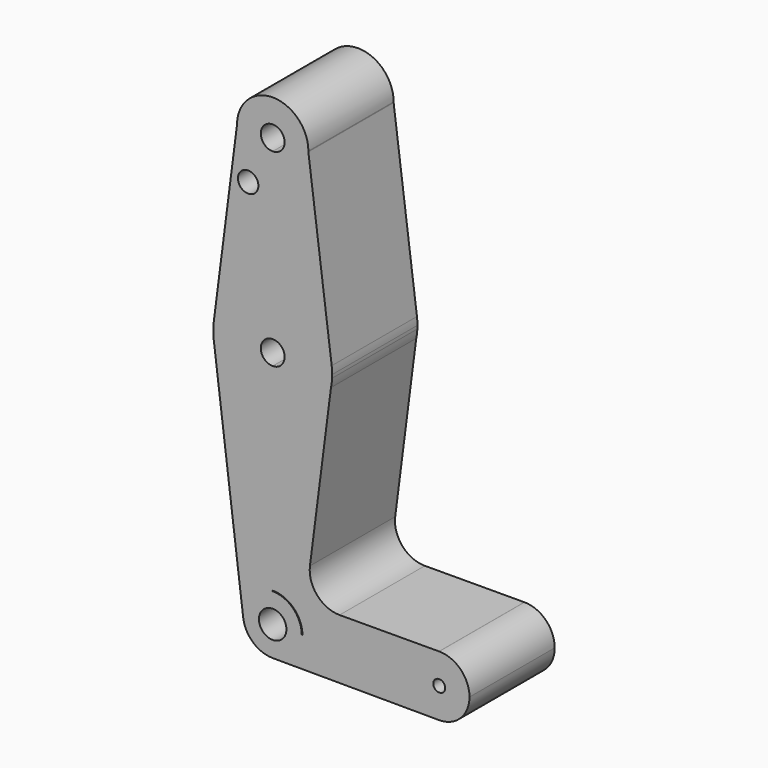
from build123d import *

# Parameters (mm, degrees)
F0_R     = 2.726595534
F1_DEPTH = 28.448


with BuildPart() as f1:
    # F0 (on Front) → F1 (new body)
    with BuildSketch(Plane.XZ):
        with BuildLine():
            ThreePointArc((-40.7547102064, 50.4481623903), (-37.9649022972, 43.7129702995), (-31.2297102064, 40.9231623903))
            ThreePointArc((-31.2297102064, 40.9231623903), (-24.5651627011, 43.6430590443), (-21.7067843213, 50.2493972355))
            ThreePointArc((-21.7067843213, 50.2493972355), (-21.7052287492, 50.3487744022), (-21.7047102064, 50.4481623903))
            ThreePointArc((-21.7047102064, 50.4481623903), (-31.2297102064, 59.9731623903), (-40.7547102064, 50.4481623903))
        make_face()
        with BuildLine():
            ThreePointArc((-28.0547102064, 50.4481623903), (-28.9846461761, 48.20309836), (-31.2297102064, 47.2731623903))
            ThreePointArc((-31.2297102064, 47.2731623903), (-33.4747742367, 52.6932264205), (-28.0547102064, 50.4481623903))
        make_face(mode=Mode.SUBTRACT)
        with BuildLine():
            ThreePointArc((-21.7067843213, 50.2493972355), (-24.5651627011, 43.6430590443), (-31.2297102064, 40.9231623903))
            Line((-31.2297102064, 40.9231623903), (-31.2297102064, 15.875))
            ThreePointArc((-31.2297102064, 15.875), (-20.7472149459, 11.9219511035), (-15.485231978, 2.0315093686))
            Line((-15.485231978, 2.0315093686), (-21.7067843213, 50.2493972355))
        make_face()
        with BuildLine():
            Line((-31.2297102064, 15.875), (-31.2297102064, 40.9231623903))
            ThreePointArc((-31.2297102064, 40.9231623903), (-37.9649022972, 43.7129702995), (-40.7547102064, 50.4481623903))
            Line((-40.7547102064, 50.4481623903), (-46.9753299172, 2.0226430538))
            ThreePointArc((-46.9753299172, 2.0226430538), (-41.7155617818, 11.918999192), (-31.2297102064, 15.875))
        make_face()
        with Locations((-37.7813987434, 37.9448458552)):
            Circle(F0_R, mode=Mode.SUBTRACT)
        with BuildLine():
            ThreePointArc((-15.485231978, 2.0315093686), (-20.7472149459, 11.9219511035), (-31.2297102064, 15.875))
            Line((-31.2297102064, 15.875), (-31.2297102064, 3.175))
            ThreePointArc((-31.2297102064, 3.175), (-28.9846461761, 2.2450640303), (-28.0547102064, 0))
            ThreePointArc((-28.0547102064, 0), (-28.9846461761, -2.2450640303), (-31.2297102064, -3.175))
            Line((-31.2297102064, -3.175), (-31.2297102064, -15.875))
            ThreePointArc((-31.2297102064, -15.875), (-21.1855906399, -12.2935465645), (-15.6734454391, -3.1651621585))
            Line((-15.6734454391, -3.1651621585), (-15.3785323056, -0.8693584745))
            ThreePointArc((-15.3785323056, -0.8693584745), (-15.3606668487, -0.4348423995), (-15.3547102064, 0))
            ThreePointArc((-15.3547102064, 0), (-15.3873742537, 1.0178489878), (-15.485231978, 2.0315093686))
        make_face()
        with BuildLine():
            Line((-31.2297102064, 3.175), (-31.2297102064, 15.875))
            ThreePointArc((-31.2297102064, 15.875), (-41.7155617818, 11.918999192), (-46.9753299172, 2.0226430538))
            ThreePointArc((-46.9753299172, 2.0226430538), (-47.1044165332, 0.0965610555), (-46.998770155, -1.8309487529))
            Line((-46.998770155, -1.8309487529), (-46.9631299673, -2.1154497456))
            ThreePointArc((-46.9631299673, -2.1154497456), (-41.6803766992, -11.9498617086), (-31.2297102064, -15.875))
            Line((-31.2297102064, -15.875), (-31.2297102064, -3.175))
            ThreePointArc((-31.2297102064, -3.175), (-34.4047102064, 0), (-31.2297102064, 3.175))
        make_face()
        with BuildLine():
            ThreePointArc((21.293102882, -63.8518376097), (18.9286306717, -58.1434967317), (13.2202897936, -55.7790245213))
            ThreePointArc((13.2202897936, -55.7790245213), (7.5119489155, -58.1434967317), (5.1474767052, -63.8518376097))
            ThreePointArc((5.1474767052, -63.8518376097), (7.5032669549, -69.5514833024), (13.1957148264, -71.9246132929))
            ThreePointArc((13.1957148264, -71.9246132929), (18.9199354863, -69.5688604485), (21.293102882, -63.8518376097))
        make_face()
        with BuildLine():
            ThreePointArc((14.8077897936, -63.8518376097), (13.2202897936, -65.4393376097), (11.6327897936, -63.8518376097))
            ThreePointArc((11.6327897936, -63.8518376097), (13.2202897936, -62.2643376097), (14.8077897936, -63.8518376097))
        make_face(mode=Mode.SUBTRACT)
        with BuildLine():
            Line((-46.9631299673, -2.1154497456), (-46.998770155, -1.8309487529))
            ThreePointArc((-46.998770155, -1.8309487529), (-46.9815923849, -1.9732797148), (-46.9631299673, -2.1154497456))
        make_face()
        with BuildLine():
            ThreePointArc((-15.6734454391, -3.1651621585), (-21.1855906399, -12.2935465645), (-31.2297102064, -15.875))
            Line((-31.2297102064, -15.875), (-31.2297102064, -55.9143376097))
            ThreePointArc((-31.2297102064, -55.9143376097), (-25.6170501307, -58.2391775341), (-23.2922102064, -63.8518376097))
            Line((-23.2922102064, -63.8518376097), (5.1474767052, -63.8518376097))
            ThreePointArc((5.1474767052, -63.8518376097), (7.5119489155, -58.1434967317), (13.2202897936, -55.7790245213))
            Line((13.2202897936, -55.7790245213), (-13.3815098989, -55.859982763))
            ThreePointArc((-13.3815098989, -55.859982763), (-19.3667419826, -53.1702109374), (-21.2911113125, -46.896880223))
            Line((-21.2911113125, -46.896880223), (-15.6734454391, -3.1651621585))
        make_face()
        with BuildLine():
            Line((-31.2297102064, -55.9143376097), (-31.2297102064, -15.875))
            ThreePointArc((-31.2297102064, -15.875), (-41.6803766992, -11.9498617086), (-46.9631299673, -2.1154497456))
            Line((-46.9631299673, -2.1154497456), (-39.1056512957, -64.8384774671))
            ThreePointArc((-39.1056512957, -64.8384774671), (-37.1809857049, -58.5995784586), (-31.2297102064, -55.9143376097))
        make_face()
        with BuildLine():
            ThreePointArc((-15.6734454391, -3.1651621585), (-15.4840904226, -2.0226424854), (-15.3785323056, -0.8693584745))
            Line((-15.3785323056, -0.8693584745), (-15.6734454391, -3.1651621585))
        make_face()
        with BuildLine():
            Line((-31.2297102064, -56.0912296504), (-31.2297102064, -55.9143376097))
            ThreePointArc((-31.2297102064, -55.9143376097), (-37.1809857049, -58.5995784586), (-39.1056512957, -64.8384774671))
            ThreePointArc((-39.1056512957, -64.8384774671), (-36.4910987194, -69.7950435766), (-31.2540792155, -71.7893002019))
            ThreePointArc((-31.2540792155, -71.7893002019), (-25.6256724995, -69.4731068285), (-23.2922102064, -63.8518376097))
            Line((-23.2922102064, -63.8518376097), (-23.469102247, -63.8518376097))
            ThreePointArc((-23.469102247, -63.8518376097), (-36.7172887206, -69.3394161239), (-31.2297102064, -56.0912296504))
        make_face()
        with BuildLine():
            Line((5.1474767052, -63.8518376097), (-23.2922102064, -63.8518376097))
            ThreePointArc((-23.2922102064, -63.8518376097), (-25.6256724995, -69.4731068285), (-31.2540792155, -71.7893002019))
            Line((-31.2540792155, -71.7893002019), (13.1957148264, -71.9246132929))
            ThreePointArc((13.1957148264, -71.9246132929), (7.5032669549, -69.5514833024), (5.1474767052, -63.8518376097))
        make_face()
        with BuildLine():
            Line((-31.2297102064, -60.1843108323), (-31.2297102064, -56.0912296504))
            ThreePointArc((-31.2297102064, -56.0912296504), (-36.7172887206, -69.3394161239), (-23.469102247, -63.8518376097))
            Line((-23.469102247, -63.8518376097), (-27.562183429, -63.8518376097))
            ThreePointArc((-27.562183429, -63.8518376097), (-33.8230432609, -66.4451706642), (-31.2297102064, -60.1843108323))
        make_face()
        with BuildLine():
            ThreePointArc((-23.469102247, -63.8518376097), (-25.7421316922, -58.3642590955), (-31.2297102064, -56.0912296504))
            Line((-31.2297102064, -56.0912296504), (-31.2297102064, -60.1843108323))
            ThreePointArc((-31.2297102064, -60.1843108323), (-28.6363771519, -61.2585045552), (-27.562183429, -63.8518376097))
            Line((-27.562183429, -63.8518376097), (-23.469102247, -63.8518376097))
        make_face()
    extrude(amount=F1_DEPTH)


solid = f1.part
